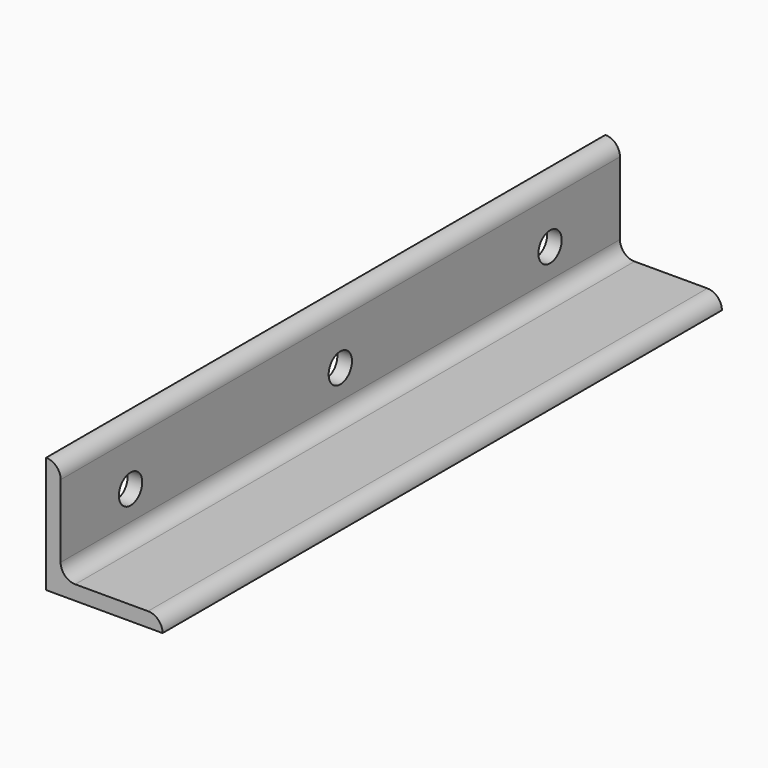
from build123d import *

# Parameters (mm, degrees)
F1_DEPTH = 304.8
F2_R     = 6.35
F3_DEPTH = 6.35
F4_R     = 6.35
F5_DEPTH = 6.35
F6_R     = 6.35
F7_DEPTH = 6.35


with BuildPart() as f1:
    # F0 (on Front) → F1 (new body)
    with BuildSketch(Plane.XZ):
        with BuildLine():
            Line((0, 50.8), (0, 0))
            Line((0, 0), (50.8, 0))
            ThreePointArc((50.8, 0), (48.940128, 4.490128), (44.45, 6.35))
            Line((44.45, 6.35), (12.7, 6.35))
            ThreePointArc((12.7, 6.35), (8.209872, 8.209872), (6.35, 12.7))
            Line((6.35, 12.7), (6.35, 44.45))
            ThreePointArc((6.35, 44.45), (4.490128, 48.940128), (0, 50.8))
        make_face()
    extrude(amount=-F1_DEPTH)

    # F2 (on face) → F3 (cut)
    with BuildSketch(Plane(origin=(0, 0, 0), x_dir=(0, -1, 0), z_dir=(-1, 0, 0))):
        with Locations((-38.1, 25.4)):
            Circle(F2_R)
    extrude(amount=-F3_DEPTH, mode=Mode.SUBTRACT)

    # F4 (on face) → F5 (cut)
    with BuildSketch(Plane(origin=(0, 0, 0), x_dir=(0, -1, 0), z_dir=(-1, 0, 0))):
        with Locations((-266.7, 25.4)):
            Circle(F4_R)
    extrude(amount=-F5_DEPTH, mode=Mode.SUBTRACT)

    # F6 (on face) → F7 (cut)
    with BuildSketch(Plane(origin=(0, 0, 0), x_dir=(0, -1, 0), z_dir=(-1, 0, 0))):
        with Locations((-152.4, 25.4)):
            Circle(F6_R)
    extrude(amount=-F7_DEPTH, mode=Mode.SUBTRACT)


solid = f1.part
